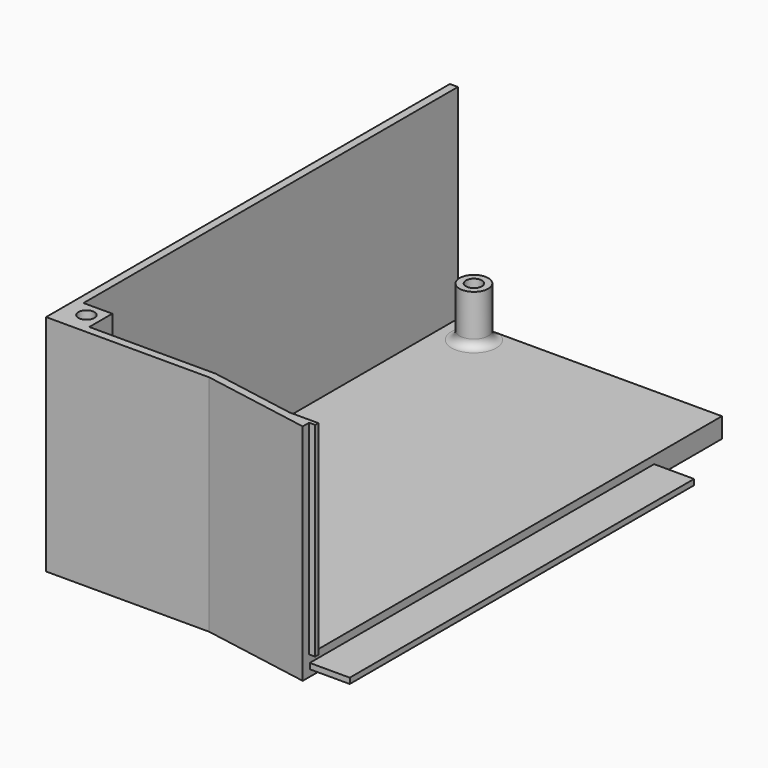
from build123d import *

# Parameters (mm, degrees)
SKETCH_1_W      = 63
SKETCH_1_H      = 116
PAD_DEPTH       = 5
PAD001_DEPTH    = 5
SKETCH001_W     = 5
SKETCH001_H     = 126.2
PAD002_DEPTH    = 5
PAD003_DEPTH    = 51
SKETCH003_W     = 7.2
SKETCH003_H     = 7.2
PAD004_DEPTH    = 51
SKETCH004_R     = 2
POCKET_DEPTH    = 6.7
SKETCH005_W     = 107.6
SKETCH005_H     = 1.4
PAD005_DEPTH    = 10
SKETCH006_R     = 3.6
PAD006_DEPTH    = 12.4
SKETCH007_R     = 2
POCKET001_DEPTH = 6.7
SKETCH008_W     = 45.1
SKETCH008_H     = 2.08
POCKET002_DEPTH = 11
PAD007_DEPTH    = 51
FILLET_R        = 2


with BuildPart() as part:
    # Sketch_1 → Pad (new body)
    with BuildSketch(Plane.XY):
        with Locations((-31.5, 58)):
            Rectangle(SKETCH_1_W, SKETCH_1_H)
    extrude(amount=PAD_DEPTH)

    # Sketch → Pad001 (join)
    with BuildSketch(Plane.XY):
        Polygon((0, 0), (-63, 0), (-63, -10.2), (-27.222153, -10.2), (0, -15), align=None)
    extrude(amount=PAD001_DEPTH)

    # Sketch001 → Pad002 (join)
    with BuildSketch(Plane.XY):
        with Locations((-65.5, 52.9)):
            Rectangle(SKETCH001_W, SKETCH001_H)
    extrude(amount=PAD002_DEPTH)

    # Sketch002 (on Face8 of Pad002) → Pad003 (join)
    with BuildSketch(Plane.XY.offset(5)):
        Polygon((-68, 116), (-68, -10.2), (-27.222153, -10.2), (0, -15), (0, -13), (-27.222153, -8.2), (-66, -8.2), (-66, 116), align=None)
    extrude(amount=PAD003_DEPTH)

    # Sketch003 (on Face8 of Pad003) → Pad004 (join)
    with BuildSketch(Plane.XY.offset(5)):
        with Locations((-62.4, -4.6)):
            Rectangle(SKETCH003_W, SKETCH003_H)
    extrude(amount=PAD004_DEPTH)

    # Sketch004 (on Face25 of Pad004) → Pocket (cut)
    with BuildSketch(Plane.XY.offset(56)):
        with Locations((-62.4, -4.6)):
            Circle(SKETCH004_R)
    extrude(amount=-POCKET_DEPTH, mode=Mode.SUBTRACT)

    # Sketch005 (on Face3 of Pocket) → Pad005 (join)
    with BuildSketch(Plane.YZ):
        with Locations((41, 2.36)):
            Rectangle(SKETCH005_W, SKETCH005_H)
    extrude(amount=PAD005_DEPTH)

    # Sketch006 (on Face5 of Pad005) → Pad006 (join)
    with BuildSketch(Plane.XY.offset(5)):
        with Locations((-58, 5)):
            Circle(SKETCH006_R)
        with Locations((-58, 111)):
            Circle(SKETCH006_R)
    extrude(amount=PAD006_DEPTH)

    # Sketch007 (on Face31 of Pad006) → Pocket001 (cut)
    with BuildSketch(Plane.XY.offset(17.4)):
        with Locations((-58, 5)):
            Circle(SKETCH007_R)
        with Locations((-58, 111)):
            Circle(SKETCH007_R)
    extrude(amount=-POCKET001_DEPTH, mode=Mode.SUBTRACT)

    # Sketch008 (on Face1 of Pocket001) → Pocket002 (cut)
    with BuildSketch(Plane(origin=(0, 116, 0), x_dir=(-1, 0, 0), z_dir=(0, 1, 0))):
        with Locations((43.5, 2.46)):
            Rectangle(SKETCH008_W, SKETCH008_H)
    extrude(amount=-POCKET002_DEPTH, mode=Mode.SUBTRACT)

    # Sketch009 (on Face15 of Pocket002) → Pad007 (join)
    with BuildSketch(Plane.XY.offset(5)):
        Polygon((0, -12), (-5.671282, -12), (0, -13), (1.5, -13), (1.5, -12), align=None)
    extrude(amount=PAD007_DEPTH)

    # Fillet
    fillet_edges = [part.edges().sort_by_distance(p)[0] for p in [
        (-61.6, 111, 5),
        (-61.6, 5, 5),
    ]]
    fillet(fillet_edges, radius=FILLET_R)


solid = part.part
